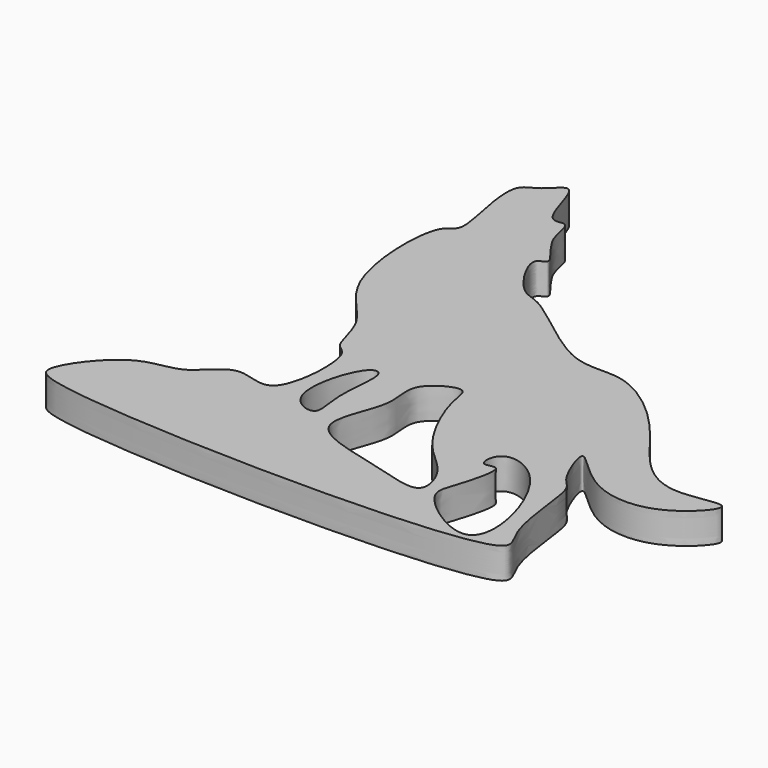
from build123d import *

# Parameters (mm, degrees)
F1_DEPTH = 3


with BuildPart() as f1:
    # F0 (on Top) → F1 (new body)
    with BuildSketch(Plane.XY):
        with BuildLine():
            add(Edge.make_bspline(
                [(9.0665528551, 46.8282811344), (8.6083920637, 45.8824972077), (9.4432172206, 41.8271016826), (10.0690715973, 38.5459121169), (7.8110108584, 38.2563522684), (7.9425341629, 26.3632870425), (13.8925278216, 22.625340705), (14.2699595986, 17.861230092), (16.5101258857, 17.5545768133), (16.0218202407, 7.6347460867), (10.9242220521, 11.2279925038), (8.3431626279, 6.8987170597), (3.7545426886, 7.4562422639), (-0.6622426085, 1.706642937), (0.9575722886, -1.6730524515), (49.0213124006, -2.46958346), (43.5369276582, 2.6574002777), (43.4190839169, 10.8826801263), (41.7082772567, 11.2983905049), (39.35042375, 17.492931634), (43.9900120423, 11.5085304683), (50.7419862832, 11.1259882282), (55.7652830837, 16.8149846968), (49.2069845174, 14.6111579986), (44.9333388871, 17.4895139638), (41.4877121059, 23.0703282111), (34.9664572432, 28.2276076538), (29.919001448, 26.3560598046), (22.2178915384, 33.6833251028), (19.9644930777, 33.3005733745), (16.6638334852, 38.5547704427), (19.3187776663, 38.5780796067), (15.9111211647, 41.5660773963), (16.1043591399, 45.0295695345), (13.6755267218, 43.5726424686), (12.692727671, 50.7736095312), (10.6137579583, 47.5614350177), (9.3449995914, 47.4030803154), (9.0665528551, 46.8282811344)],
                knots=[0, 0, 0, 0, 0.0290757681, 0.0514495057, 0.0663087854, 0.1077811884, 0.1422338055, 0.1673787811, 0.1843459784, 0.2189407672, 0.2433150795, 0.2688055133, 0.2956550607, 0.3277426902, 0.3476938685, 0.4326238916, 0.4540027965, 0.4901191688, 0.5077899185, 0.5329348962, 0.5596192018, 0.5940896984, 0.6210891062, 0.6473126113, 0.6762585911, 0.7098959182, 0.7453364144, 0.7739240307, 0.8136253654, 0.8340932716, 0.8620666684, 0.8745617878, 0.898834471, 0.9203798125, 0.9352390996, 0.9639510874, 0.9823292327, 1, 1, 1, 1], degree=3))
        make_face()
        with BuildLine():
            add(Edge.make_bspline(
                [(18.9743340015, 16.3571853191), (19.3550063338, 16.7133416575), (20.5590336727, 16.6099449817), (19.4254544276, 11.5759965023), (20.8067271434, 7.7149957494), (16.1476172461, 9.3663060763), (17.9572453847, 15.4055990679), (18.9743340015, 16.3571853191)],
                knots=[0, 0, 0, 0, 0.1062935489, 0.3486802173, 0.5388239454, 0.7160025841, 1, 1, 1, 1], degree=3))
        make_face(mode=Mode.SUBTRACT)
        with BuildLine():
            add(Edge.make_bspline(
                [(35.6119275093, 11.4967636764), (35.1294323104, 11.0075338819), (35.0175797359, 9.219649546), (37.3526684139, 10.6432941763), (35.9590932426, 5.4559450834), (34.8080961426, 3.0999007581), (44.8578954287, -3.7911294315), (41.2192676828, 10.9543848859), (36.4087691435, 12.3047275067), (35.6119275093, 11.4967636764)],
                knots=[0, 0, 0, 0, 0.0933628213, 0.1693599254, 0.3122571072, 0.4324188251, 0.6185815424, 0.8458111433, 1, 1, 1, 1], degree=3))
        make_face(mode=Mode.SUBTRACT)
        with BuildLine():
            add(Edge.make_bspline(
                [(26.4519061893, 18.226576969), (25.7685782805, 18.3767904197), (22.5412569648, 16.6050997677), (24.3664800988, 13.0114389916), (20.123995258, 6.2120428611), (28.931682307, 4.6941640312), (35.0716474315, 2.3878200049), (33.7106565381, 7.1436286833), (29.9871668622, 9.2937775943), (26.9423947836, 15.949676043), (26.9880892889, 18.1087098184), (26.4519061893, 18.226576969)],
                knots=[0, 0, 0, 0, 0.0950919989, 0.1942643757, 0.3200215035, 0.4627256305, 0.5815082382, 0.6704319517, 0.7835622086, 0.9253846915, 1, 1, 1, 1], degree=3))
        make_face(mode=Mode.SUBTRACT)
    extrude(amount=F1_DEPTH)


solid = f1.part
